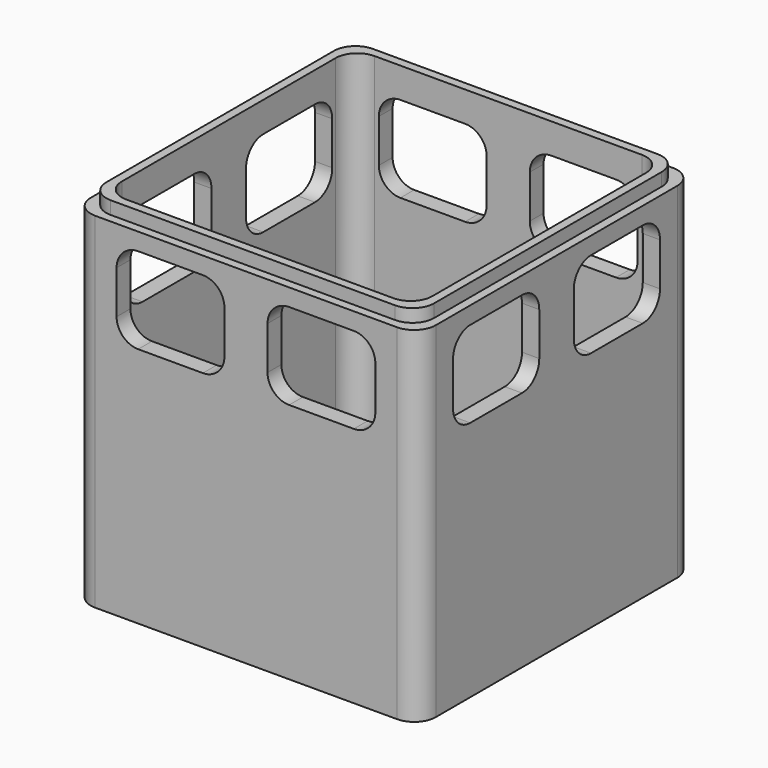
from build123d import *

# Parameters (mm, degrees)
F1_DEPTH = 80
F2_DEPTH = 8
F4_DEPTH = 3
F7_DEPTH = 80.001
F8_DEPTH = 80.001


with BuildPart() as f1:
    # F0 (on Top) → F1 (new body)
    with BuildSketch(Plane.XY):
        with BuildLine():
            Line((35, 40), (-35, 40))
            ThreePointArc((-35, 40), (-38.535534, 38.535534), (-40, 35))
            Line((-40, 35), (-40, -35))
            ThreePointArc((-40, -35), (-38.535534, -38.535534), (-35, -40))
            Line((-35, -40), (35, -40))
            ThreePointArc((35, -40), (38.535534, -38.535534), (40, -35))
            Line((40, -35), (40, 35))
            ThreePointArc((40, 35), (38.535534, 38.535534), (35, 40))
        make_face()
        with BuildLine():
            ThreePointArc((-36, 31), (-34.535534, 34.535534), (-31, 36))
            Line((-31, 36), (31, 36))
            ThreePointArc((31, 36), (34.535534, 34.535534), (36, 31))
            Line((36, 31), (36, -31))
            ThreePointArc((36, -31), (34.535534, -34.535534), (31, -36))
            Line((31, -36), (-31, -36))
            ThreePointArc((-31, -36), (-34.535534, -34.535534), (-36, -31))
            Line((-36, -31), (-36, 31))
        make_face(mode=Mode.SUBTRACT)
    extrude(amount=F1_DEPTH)

    # F0 (on Top) → F2 (join)
    with BuildSketch(Plane.XY):
        with BuildLine():
            Line((31, 36), (-31, 36))
            ThreePointArc((-31, 36), (-34.535534, 34.535534), (-36, 31))
            Line((-36, 31), (-36, -31))
            ThreePointArc((-36, -31), (-34.535534, -34.535534), (-31, -36))
            Line((-31, -36), (31, -36))
            ThreePointArc((31, -36), (34.535534, -34.535534), (36, -31))
            Line((36, -31), (36, 31))
            ThreePointArc((36, 31), (34.535534, 34.535534), (31, 36))
        make_face()
    extrude(amount=F2_DEPTH)

    # F3 (on face) → F4 (join)
    with BuildSketch(Plane.XY.offset(80)):
        with BuildLine():
            Line((33, 38), (-33, 38))
            ThreePointArc((-33, 38), (-36.535534, 36.535534), (-38, 33))
            Line((-38, 33), (-38, -33))
            ThreePointArc((-38, -33), (-36.535534, -36.535534), (-33, -38))
            Line((-33, -38), (33, -38))
            ThreePointArc((33, -38), (36.535534, -36.535534), (38, -33))
            Line((38, -33), (38, 33))
            ThreePointArc((38, 33), (36.535534, 36.535534), (33, 38))
        make_face()
        with BuildLine():
            Line((-36, -31), (-36, 31))
            ThreePointArc((-36, 31), (-34.535534, 34.535534), (-31, 36))
            Line((-31, 36), (31, 36))
            ThreePointArc((31, 36), (34.535534, 34.535534), (36, 31))
            Line((36, 31), (36, -31))
            ThreePointArc((36, -31), (34.535534, -34.535534), (31, -36))
            Line((31, -36), (-31, -36))
            ThreePointArc((-31, -36), (-34.535534, -34.535534), (-36, -31))
        make_face(mode=Mode.SUBTRACT)
    extrude(amount=F4_DEPTH)

    # F6 (on face) → F7 (cut, through all)
    with BuildSketch(Plane(origin=(0, 40, 0), x_dir=(-1, 0, 0), z_dir=(0, 1, 0))):
        with BuildLine():
            Line((-25, 56), (-10, 56))
            ThreePointArc((-10, 56), (-6.464466, 57.464466), (-5, 61))
            Line((-5, 61), (-5, 71))
            ThreePointArc((-5, 71), (-6.464466, 74.535534), (-10, 76))
            Line((-10, 76), (-25, 76))
            ThreePointArc((-25, 76), (-28.535534, 74.535534), (-30, 71))
            Line((-30, 71), (-30, 61))
            ThreePointArc((-30, 61), (-28.535534, 57.464466), (-25, 56))
        make_face()
        with BuildLine():
            ThreePointArc((5, 61), (6.464466, 57.464466), (10, 56))
            Line((10, 56), (25, 56))
            ThreePointArc((25, 56), (28.535534, 57.464466), (30, 61))
            Line((30, 61), (30, 71))
            ThreePointArc((30, 71), (28.535534, 74.535534), (25, 76))
            Line((25, 76), (10, 76))
            ThreePointArc((10, 76), (6.464466, 74.535534), (5, 71))
            Line((5, 71), (5, 61))
        make_face()
    extrude(amount=-F7_DEPTH, mode=Mode.SUBTRACT)

    # F5 (on face) → F8 (cut, through all)
    with BuildSketch(Plane.YZ.offset(40)):
        with BuildLine():
            Line((-25, 56), (-10, 56))
            ThreePointArc((-10, 56), (-6.464466, 57.464466), (-5, 61))
            Line((-5, 61), (-5, 71))
            ThreePointArc((-5, 71), (-6.464466, 74.535534), (-10, 76))
            Line((-10, 76), (-25, 76))
            ThreePointArc((-25, 76), (-28.535534, 74.535534), (-30, 71))
            Line((-30, 71), (-30, 61))
            ThreePointArc((-30, 61), (-28.535534, 57.464466), (-25, 56))
        make_face()
        with BuildLine():
            ThreePointArc((5, 61), (6.464466, 57.464466), (10, 56))
            Line((10, 56), (25, 56))
            ThreePointArc((25, 56), (28.535534, 57.464466), (30, 61))
            Line((30, 61), (30, 71))
            ThreePointArc((30, 71), (28.535534, 74.535534), (25, 76))
            Line((25, 76), (10, 76))
            ThreePointArc((10, 76), (6.464466, 74.535534), (5, 71))
            Line((5, 71), (5, 61))
        make_face()
    extrude(amount=-F8_DEPTH, mode=Mode.SUBTRACT)


solid = f1.part
